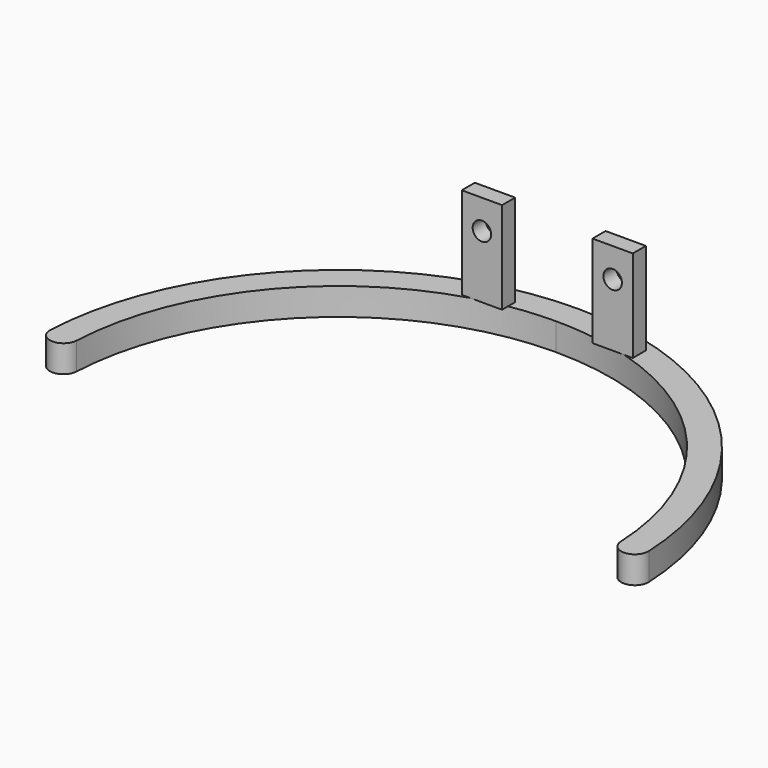
from build123d import *

# Parameters (mm, degrees)
SKETCH023_R  = 1.7
PAD012_DEPTH = 3
PAD013_DEPTH = 5


with BuildPart() as part:
    # Sketch023 → Pad012 (new body)
    with BuildSketch(Plane(origin=(0, 75, 0), x_dir=(-1, 0, 0), z_dir=(0, 1, 0))):
        Polygon((-15.7, -7.5), (-15.7, 9.4), (-12, 9.4), (-8.3, 9.4), (-8.3, -7.5), align=None)
        with Locations((-12, 4)):
            Circle(SKETCH023_R, mode=Mode.SUBTRACT)
    pad012 = extrude(amount=PAD012_DEPTH)

    # Sketch025 (on Face5 of Pad012) → Pad013 (join)
    with BuildSketch(Plane(origin=(0, 0, -7.5), x_dir=(1, 0, 0), z_dir=(0, 0, -1))):
        with BuildLine():
            ThreePointArc((0, -77.043425), (34.5032756474, -63.2307704346), (49.943278179, -29.4243837841))
            ThreePointArc((54.9376070845, -29.6624568488), (52.5594789409, -27.0462605473), (49.943278179, -29.4243837841))
            ThreePointArc((0, -82.043425), (37.9536114771, -66.8494970976), (54.9376070845, -29.6624568488))
            Line((0, -77.043425), (0, -82.043425))
        make_face()
    pad013 = extrude(amount=PAD013_DEPTH)

    # Mirrored007: Pad013, Pad012 across Sketch025 V_Axis
    add(pad013.mirror(Plane(origin=(0, 0, -7.5), x_dir=(0, 0, -1), z_dir=(1, 0, 0))))
    add(pad012.mirror(Plane(origin=(0, 0, -7.5), x_dir=(0, 0, -1), z_dir=(1, 0, 0))))


solid = part.part
